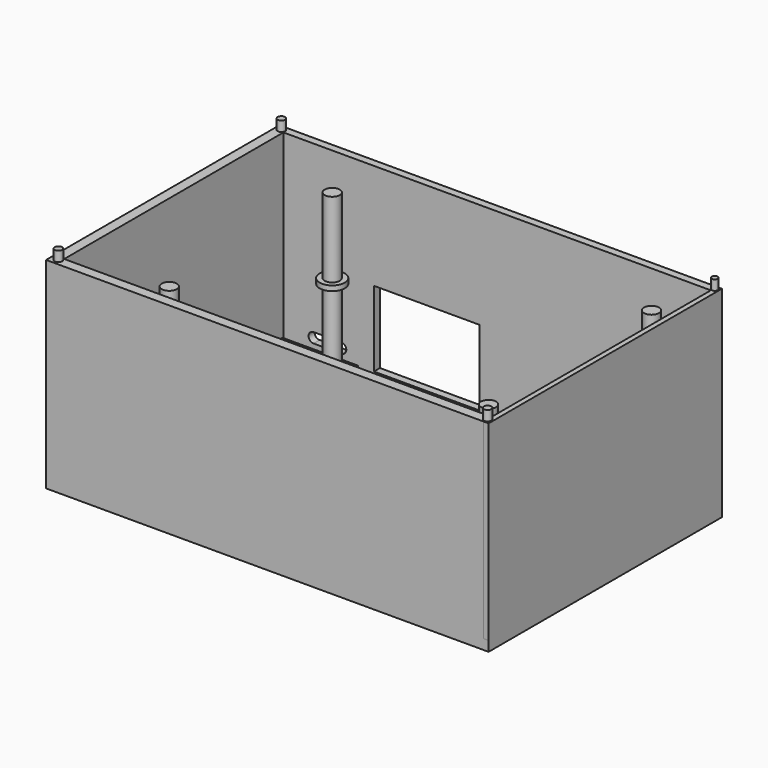
from build123d import *

# Parameters (mm, degrees)
SKETCH_W        = 88
SKETCH_H        = 58
PAD_DEPTH       = 2
SKETCH001_W     = 1
SKETCH001_H     = 11
PAD001_DEPTH    = 8
SKETCH002_W     = 1
SKETCH002_H     = 11
PAD002_DEPTH    = 8
SKETCH003_W     = 26
SKETCH003_H     = 1
PAD003_DEPTH    = 8
SKETCH004_W     = 15
SKETCH004_H     = 19
PAD004_DEPTH    = 3
SKETCH005_W     = 28
SKETCH005_H     = 10
PAD005_DEPTH    = 3
SKETCH006_R     = 1.5
PAD006_DEPTH    = 22
PAD007_DEPTH    = 22
SKETCH007_W     = 8
SKETCH007_H     = 5
PAD008_DEPTH    = 3
SKETCH008_R     = 2.5
PAD009_DEPTH    = 1
SKETCH009_R     = 1.5
PAD010_DEPTH    = 15
SKETCH010_W     = 2
SKETCH010_H     = 58
SKETCH010_W_2   = 1
PAD011_DEPTH    = 38
SKETCH011_W     = 85
SKETCH011_H     = 2
SKETCH011_H_2   = 1.5
PAD012_DEPTH    = 38
SKETCH012_R     = 0.75
SKETCH012_R_2   = 0.6
PAD013_DEPTH    = 2
POCKET_DEPTH    = 1.5
SKETCH014_W     = 21
SKETCH014_H     = 15
POCKET001_DEPTH = 1.5


with BuildPart() as part:
    # Sketch → Pad (new body)
    with BuildSketch(Plane.XY):
        with Locations((44, 29)):
            Rectangle(SKETCH_W, SKETCH_H)
    extrude(amount=PAD_DEPTH)

    # Sketch001 (on Face6 of Pad) → Pad001 (join)
    with BuildSketch(Plane.XY.offset(2)):
        with Locations((5.5, 17.5)):
            Rectangle(SKETCH001_W, SKETCH001_H)
    extrude(amount=PAD001_DEPTH)

    # Sketch002 (on Face5 of Pad001) → Pad002 (join)
    with BuildSketch(Plane.XY.offset(2)):
        with Locations((82.5, 17.5)):
            Rectangle(SKETCH002_W, SKETCH002_H)
    extrude(amount=PAD002_DEPTH)

    # Sketch003 (on Face5 of Pad002) → Pad003 (join)
    with BuildSketch(Plane.XY.offset(2)):
        with Locations((43, 6.5)):
            Rectangle(SKETCH003_W, SKETCH003_H)
        with Locations((43, 28.5)):
            Rectangle(SKETCH003_W, SKETCH003_H)
    extrude(amount=PAD003_DEPTH)

    # Sketch004 (on Face5 of Pad003) → Pad004 (join)
    with BuildSketch(Plane.XY.offset(2)):
        with Locations((10.5, 45.5)):
            Rectangle(SKETCH004_W, SKETCH004_H)
    extrude(amount=PAD004_DEPTH)

    # Sketch005 (on Face5 of Pad004) → Pad005 (join)
    with BuildSketch(Plane.XY.offset(2)):
        with Locations((60, 41)):
            Rectangle(SKETCH005_W, SKETCH005_H)
    extrude(amount=PAD005_DEPTH)

    # Sketch006 (on Face5 of Pad005) → Pad006 (join)
    with BuildSketch(Plane.XY.offset(2)):
        with Locations((84, 5)):
            Circle(SKETCH006_R)
        with Locations((20.5, 5)):
            Circle(SKETCH006_R)
        with Locations((20.5, 45.5)):
            Circle(SKETCH006_R)
        with Locations((84, 45.5)):
            Circle(SKETCH006_R)
    extrude(amount=PAD006_DEPTH)

    # Sketch006 (on Face5 of Pad005) → Pad007 (join)
    with BuildSketch(Plane.XY.offset(2)):
        with Locations((84, 5)):
            Circle(SKETCH006_R)
        with Locations((20.5, 5)):
            Circle(SKETCH006_R)
        with Locations((20.5, 45.5)):
            Circle(SKETCH006_R)
        with Locations((84, 45.5)):
            Circle(SKETCH006_R)
    extrude(amount=PAD007_DEPTH)

    # Sketch007 (on Face5 of Pad007) → Pad008 (join)
    with BuildSketch(Plane.XY.offset(2)):
        with Locations((29.5, 51.5)):
            Rectangle(SKETCH007_W, SKETCH007_H)
    extrude(amount=PAD008_DEPTH)

    # Sketch008 (on Face35 of Pad007) → Pad009 (join)
    with BuildSketch(Plane.XY.offset(24)):
        with Locations((20.5, 5)):
            Circle(SKETCH008_R)
        with Locations((84, 5)):
            Circle(SKETCH008_R)
        with Locations((20.5, 45.5)):
            Circle(SKETCH008_R)
        with Locations((84, 45.5)):
            Circle(SKETCH008_R)
    extrude(amount=PAD009_DEPTH)

    # Sketch009 (on Face54 of Pad009) → Pad010 (join)
    with BuildSketch(Plane.XY.offset(25)):
        with Locations((20.5, 5)):
            Circle(SKETCH009_R)
        with Locations((84, 5)):
            Circle(SKETCH009_R)
        with Locations((20.5, 45.5)):
            Circle(SKETCH009_R)
        with Locations((84, 45.5)):
            Circle(SKETCH009_R)
    extrude(amount=PAD010_DEPTH)

    # Sketch010 (on Face5 of Pad010) → Pad011 (join)
    with BuildSketch(Plane.XY.offset(2)):
        with Locations((1, 29)):
            Rectangle(SKETCH010_W, SKETCH010_H)
        with Locations((87.5, 29.00001)):
            Rectangle(SKETCH010_W_2, SKETCH010_H)
    extrude(amount=PAD011_DEPTH)

    # Sketch011 (on Face5 of Pad010) → Pad012 (join)
    with BuildSketch(Plane.XY.offset(2)):
        with Locations((44.5, 1)):
            Rectangle(SKETCH011_W, SKETCH011_H)
        with Locations((44.5, 57.25)):
            Rectangle(SKETCH011_W, SKETCH011_H_2)
    extrude(amount=PAD012_DEPTH)

    # Sketch012 (on Face11 of Pad012) → Pad013 (join)
    with BuildSketch(Plane.XY.offset(40)):
        with Locations((1.5, 1.2)):
            Circle(SKETCH012_R)
        with Locations((1.2, 57)):
            Circle(SKETCH012_R)
        with Locations((87.2, 57.2)):
            Circle(SKETCH012_R_2)
        with Locations((87, 1)):
            Circle(SKETCH012_R)
    extrude(amount=PAD013_DEPTH)

    # Sketch013 (on Face15 of Pad013) → Pocket (cut)
    with BuildSketch(Plane(origin=(0, 58, 0), x_dir=(-1, 0, 0), z_dir=(0, 1, 0))):
        with BuildLine():
            ThreePointArc((-8, 5), (-7, 6), (-8, 7))
            Line((-8, 7), (-13.5, 7))
            ThreePointArc((-13.5, 7), (-14.5, 6), (-13.5, 5))
            Line((-8, 5), (-13.5, 5))
        make_face()
    extrude(amount=-POCKET_DEPTH, mode=Mode.SUBTRACT)

    # Sketch014 (on Face15 of Pocket) → Pocket001 (cut)
    with BuildSketch(Plane(origin=(0, 58, 0), x_dir=(-1, 0, 0), z_dir=(0, 1, 0))):
        with Locations((-30.5, 11.5)):
            Rectangle(SKETCH014_W, SKETCH014_H)
    extrude(amount=-POCKET001_DEPTH, mode=Mode.SUBTRACT)


solid = part.part
